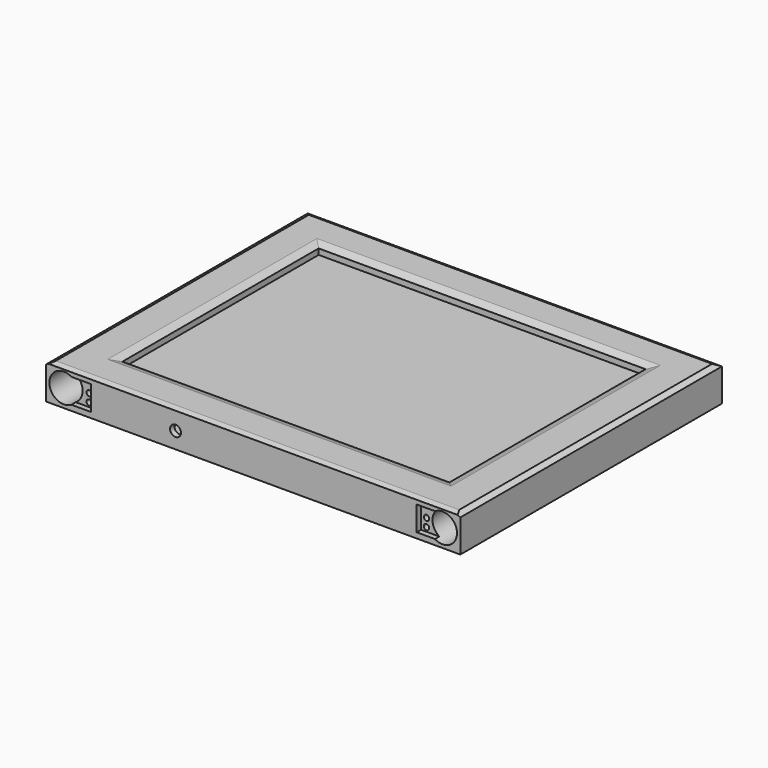
from build123d import *

# Parameters (mm, degrees)
SKETCH_W         = 125
SKETCH_H         = 100
PAD_DEPTH        = 1.5
SKETCH001_W      = 120
SKETCH001_H      = 90
POCKET_DEPTH     = 0.1
SKETCH002_W      = 152
SKETCH002_H      = 120
SKETCH002_W_2    = 120
SKETCH002_H_2    = 90
PAD001_DEPTH     = 3
SKETCH003_W      = 152
SKETCH003_H      = 120
SKETCH003_W_2    = 127
SKETCH003_H_2    = 100
PAD002_DEPTH     = 10
SKETCH004_R      = 5.3
SKETCH004_R_2    = 1
POCKET001_DEPTH  = 55
CHAMFER_SIZE2    = 1
CHAMFER_SIZE     = 3
POCKET002_DEPTH  = 8
SKETCH006_R      = 5.3
SKETCH006_R_2    = 1
POCKET003_DEPTH  = 55
SKETCH011_W      = 10
SKETCH011_H      = 9
POCKET006_DEPTH  = 2
SKETCH012_W      = 10
SKETCH012_H      = 9
POCKET007_DEPTH  = 2
SKETCH013_W      = 8
SKETCH013_H      = 15
SKETCH013_H_2    = 12
POCKET008_DEPTH  = 4
SKETCH014_W      = 3
SKETCH014_H      = 7
POCKET009_DEPTH  = 9
SKETCH015_W      = 3
SKETCH015_H      = 7
POCKET010_DEPTH  = 9
CHAMFER001_SIZE2 = 1
CHAMFER001_SIZE  = 2
CHAMFER002_SIZE2 = 0.5
CHAMFER002_SIZE  = 2
SKETCH016_W      = 3
SKETCH016_H      = 4
SKETCH016_H_2    = 8
POCKET013_DEPTH  = 4
SKETCH017_W      = 10
SKETCH017_H      = 5.5
POCKET014_DEPTH  = 2
SKETCH018_R      = 2
POCKET015_DEPTH  = 10
CHAMFER005_SIZE2 = 3
CHAMFER005_SIZE  = 1.9
PAD004_DEPTH     = 3
PAD003_DEPTH     = 4.5
SKETCH009_W      = 42
SKETCH009_H      = 5
SKETCH009_W_2    = 3
SKETCH009_H_2    = 18
POCKET011_DEPTH  = 2
SKETCH010_W      = 15
SKETCH010_H      = 18
SKETCH010_W_2    = 10
SKETCH010_W_3    = 12
SKETCH010_H_2    = 19
SKETCH010_W_4    = 16
SKETCH010_W_5    = 20
SKETCH010_H_3    = 15
SKETCH010_W_6    = 6
SKETCH010_H_4    = 25
SKETCH010_W_7    = 34
SKETCH010_H_5    = 23
SKETCH010_H_6    = 5.5
POCKET012_DEPTH  = 15
CHAMFER006_SIZE2 = 4
CHAMFER006_SIZE  = 3


with BuildPart() as screen:
    # Sketch → Pad (new body)
    with BuildSketch(Plane.XY):
        Rectangle(SKETCH_W, SKETCH_H)
    extrude(amount=PAD_DEPTH)

    # Sketch001 (on Face6 of Pad) → Pocket (cut)
    with BuildSketch(Plane.XY.offset(1.5)):
        with Locations((0, 2.5)):
            Rectangle(SKETCH001_W, SKETCH001_H)
    extrude(amount=-POCKET_DEPTH, mode=Mode.SUBTRACT)


with BuildPart() as screen_1:
    # Body placement: moved
    add(screen.part.moved(Location((0, 0, -1.5))))


with BuildPart() as frame:
    # Sketch002 → Pad001 (new body)
    with BuildSketch(Plane.XY):
        with Locations((0, 2.5)):
            Rectangle(SKETCH002_W, SKETCH002_H)
        with Locations((0, 2.5)):
            Rectangle(SKETCH002_W_2, SKETCH002_H_2, mode=Mode.SUBTRACT)
    extrude(amount=PAD001_DEPTH)

    # Sketch003 (on Face9 of Pad001) → Pad002 (join)
    with BuildSketch(Plane(origin=(0, 0, 0), x_dir=(1, 0, 0), z_dir=(0, 0, -1))):
        with Locations((0, -2.5)):
            Rectangle(SKETCH003_W, SKETCH003_H)
        Rectangle(SKETCH003_W_2, SKETCH003_H_2, mode=Mode.SUBTRACT)
    extrude(amount=PAD002_DEPTH)

    # Sketch004 (on Face14 of Pad002) → Pocket001 (cut)
    with BuildSketch(Plane.XZ.offset(57.5)):
        with Locations((69.5, -3.5)):
            Circle(SKETCH004_R)
        with Locations((62, -3.5)):
            Circle(SKETCH004_R_2)
        with Locations((62, -6.5)):
            Circle(SKETCH004_R_2)
    extrude(amount=-POCKET001_DEPTH, mode=Mode.SUBTRACT)

    # Chamfer
    chamfer_edges = [frame.edges().sort_by_distance(p)[0] for p in [
        (0, 47.5, 3),
        (0, -42.5, 3),
        (60, 2.5, 3),
        (-60, 2.5, 3),
    ]]
    chamfer_side = frame.faces().sort_by_distance((0, 60.563405, 3))[0]
    chamfer(chamfer_edges, length=CHAMFER_SIZE, length2=CHAMFER_SIZE2, reference=chamfer_side)

    # Sketch005 (on Face9 of Pocket001) → Pocket002 (cut)
    with BuildSketch(Plane(origin=(0, 0, -10), x_dir=(1, 0, 0), z_dir=(0, 0, -1))):
        Polygon((-63.5, -32.999998), (-73.965987, -32.999998), (-73.977709, -2.5), (-63.5, -2.5), (-63.5, 50), (-54.5, 50), (-54.5, 55.5), (-23.5, 55.5), (-23.5, 50), (-15.5, 50), (-15.5, 55.5), (15.5, 55.5), (15.5, 50), (23.5, 50), (23.5, 55.5), (54.5, 55.5), (54.5, 50), (63.5, 50), (63.5, -2.5), (73, -2.5), (73, -42), (63.5, -42), (63.5, -50), (54.5, -50), (54.5, -60.5), (23.5, -60.5), (23.5, -50), (15.5, -50), (15.5, -60.5), (-15.5, -60.5), (-15.5, -50), (-23.5, -50), (-23.5, -60.5), (-54.5, -60.5), (-54.5, -50), (-63.5, -50), align=None)
    extrude(amount=-POCKET002_DEPTH, mode=Mode.SUBTRACT)

    # Sketch006 (on Face16 of Pocket002) → Pocket003 (cut)
    with BuildSketch(Plane.XZ.offset(57.5)):
        with Locations((-69.5, -3.5)):
            Circle(SKETCH006_R)
        with Locations((-61.75, -3.5)):
            Circle(SKETCH006_R_2)
        with Locations((-61.75, -6.5)):
            Circle(SKETCH006_R_2)
    extrude(amount=-POCKET003_DEPTH, mode=Mode.SUBTRACT)

    # Sketch011 (on Face16 of Pocket003) → Pocket006 (cut)
    with BuildSketch(Plane.XZ.offset(57.5)):
        with Locations((-64.5, -3.5)):
            Rectangle(SKETCH011_W, SKETCH011_H)
    extrude(amount=-POCKET006_DEPTH, mode=Mode.SUBTRACT)

    # Sketch012 (on Face16 of Pocket006) → Pocket007 (cut)
    with BuildSketch(Plane.XZ.offset(57.5)):
        with Locations((65, -3.5)):
            Rectangle(SKETCH012_W, SKETCH012_H)
    extrude(amount=-POCKET007_DEPTH, mode=Mode.SUBTRACT)

    # Sketch013 (on Face25 of Pocket007) → Pocket008 (cut)
    with BuildSketch(Plane(origin=(0, 0, -10), x_dir=(1, 0, 0), z_dir=(0, 0, -1))):
        with Locations((-69.5, -52)):
            Rectangle(SKETCH013_W, SKETCH013_H)
        with Locations((69.5, -53.5)):
            Rectangle(SKETCH013_W, SKETCH013_H_2)
    extrude(amount=-POCKET008_DEPTH, mode=Mode.SUBTRACT)

    # Sketch014 (on Face45 of Pocket008) → Pocket009 (cut, symmetric)
    with BuildSketch(Plane(origin=(63.5, 0, 0), x_dir=(0, -1, 0), z_dir=(-1, 0, 0))):
        with Locations((3, -3.5)):
            Rectangle(SKETCH014_W, SKETCH014_H)
    extrude(amount=POCKET009_DEPTH, both=True, mode=Mode.SUBTRACT)

    # Sketch015 (on Face75 of Pocket009) → Pocket010 (cut, symmetric)
    with BuildSketch(Plane.YZ.offset(-63.5)):
        with Locations((-3, -3.5)):
            Rectangle(SKETCH015_W, SKETCH015_H)
    extrude(amount=POCKET010_DEPTH, both=True, mode=Mode.SUBTRACT)

    # Chamfer001
    chamfer001_edges = [frame.edges().sort_by_distance(p)[0] for p in [
        (0, 62.5, 3),
        (76, 2.5, 3),
        (-76, 2.5, 3),
    ]]
    chamfer001_side = frame.faces().sort_by_distance((0, 52.436595, 3))[0]
    chamfer(chamfer001_edges, length=CHAMFER001_SIZE, length2=CHAMFER001_SIZE2, reference=chamfer001_side)

    # Chamfer002
    chamfer002_edges = [frame.edges().sort_by_distance(p)[0] for p in [
        (0, -57.5, 3),
    ]]
    chamfer002_side = frame.faces().sort_by_distance((0, -55.607171, 3))[0]
    chamfer(chamfer002_edges, length=CHAMFER002_SIZE, length2=CHAMFER002_SIZE2, reference=chamfer002_side)

    # Sketch016 (on Face32 of Chamfer002) → Pocket013 (cut)
    with BuildSketch(Plane(origin=(0, 0, -10), x_dir=(1, 0, 0), z_dir=(0, 0, -1))):
        with Locations((-19.5, 53.5)):
            Rectangle(SKETCH016_W, SKETCH016_H)
        with Locations((19.5, 53.5)):
            Rectangle(SKETCH016_W, SKETCH016_H)
        with Locations((-19.5, -56.5)):
            Rectangle(SKETCH016_W, SKETCH016_H_2)
        with Locations((19.5, -56.5)):
            Rectangle(SKETCH016_W, SKETCH016_H_2)
    extrude(amount=-POCKET013_DEPTH, mode=Mode.SUBTRACT)

    # Sketch017 (on Face121 of Pocket013) → Pocket014 (cut)
    with BuildSketch(Plane(origin=(0, 0, -2), x_dir=(1, 0, 0), z_dir=(0, 0, -1))):
        with Locations((-28.5, 52.75)):
            Rectangle(SKETCH017_W, SKETCH017_H)
    extrude(amount=-POCKET014_DEPTH, mode=Mode.SUBTRACT)

    # Sketch018 (on Face18 of Pocket014) → Pocket015 (cut)
    with BuildSketch(Plane.XZ.offset(57.5)):
        with Locations((-28.5, -4)):
            Circle(SKETCH018_R)
    extrude(amount=-POCKET015_DEPTH, mode=Mode.SUBTRACT)

    # Chamfer005
    chamfer005_edges = [frame.edges().sort_by_distance(p)[0] for p in [
        (0, -50, -2),
    ]]
    chamfer005_side = frame.faces().sort_by_distance((20, -50, -1))[0]
    chamfer(chamfer005_edges, length=CHAMFER005_SIZE, length2=CHAMFER005_SIZE2, reference=chamfer005_side)


with BuildPart() as backplane:
    # Sketch008 → Pad004 (new body)
    with BuildSketch(Plane(origin=(0, 0, -10), x_dir=(1, 0, 0), z_dir=(0, 0, -1))):
        Polygon((-63.5, -50), (-63.5, -33), (-74, -33), (-74, -2.5), (-63.5, -2.5), (-63.5, 50), (-54.5, 50), (-54.5, 55.5), (-23.5, 55.5), (-23.5, 50), (-15.5, 50), (-15.5, 55.5), (15.5, 55.5), (15.5, 50), (23.5, 50), (23.5, 55.5), (54.5, 55.5), (54.5, 50), (63.5, 50), (63.5, -2.5), (73, -2.5), (73, -42), (63.5, -42), (63.5, -50), (54.5, -50), (54.5, -60.5), (23.5, -60.5), (23.5, -50), (15.5, -50), (15.5, -60.5), (-15.5, -60.5), (-15.5, -50), (-23.5, -50), (-23.5, -60.5), (-54.5, -60.5), (-54.5, -50), align=None)
    extrude(amount=-PAD004_DEPTH)


with BuildPart() as fill:
    # Sketch007 → Pad003 (new body)
    with BuildSketch(Plane(origin=(0, 0, -6.5), x_dir=(1, 0, 0), z_dir=(0, 0, -1))):
        Polygon((-63, -49.5), (-63, -33), (-48, -33), (-48, -48), (-30, -48), (-30, -33), (-25, -33), (-25, -2.5), (-63, -2.5), (-63, 49.5), (-54, 49.5), (-54, 55), (-24, 55), (-24, 49.5), (-15, 49.5), (-15, 55), (-14, 55), (14, 55), (15, 55), (15, 49.5), (24, 49.5), (24, 55), (54, 55), (54, 49.5), (63, 49.5), (63, -3), (72.5, -3), (72.5, -41.5), (63, -41.5), (63, -49.5), (54, -49.5), (54, -60), (24, -60), (24, -49.5), (15, -49.5), (15, -60), (-15, -60), (-15, -49.5), (-24, -49.5), (-24, -60), (-54, -60), (-54, -49.5), align=None)
        Polygon((-14, -35), (14, -35), (14, 47), (11, 50), (-11, 50), (-14, 47), align=None, mode=Mode.SUBTRACT)
    extrude(amount=-PAD003_DEPTH)

    # Sketch009 (on Face49 of Pad003) → Pocket011 (cut)
    with BuildSketch(Plane(origin=(0, 0, -6.5), x_dir=(1, 0, 0), z_dir=(0, 0, -1))):
        Polygon((-25, -2.5), (-13, 25), (-13, -35), (-30, -48), (-30, -2.5), align=None)
        Polygon((64, 50), (56, 36.143594), (56, 7.24167), (62.5, 5.5), (62.5, 1.5), (47, 5.653212), (0, 5.653212), (0, 10.653212), (47, 10.653212), (50, 9.849365), (50, 36.143594), (58, 50), align=None)
        Polygon((-63.75, 50), (-55.75, 36.143594), (-49.75, 36.143594), (-57.75, 50), align=None)
        Polygon((-43.5, 40), (-43.5, -8.5), (-47.5, -8.5), (-47.5, 1.5), (-62.5, 1.5), (-62.5, 5.5), (-47.5, 5.5), (-47.5, 40), align=None)
        with Locations((-21, 32.5)):
            Rectangle(SKETCH009_W, SKETCH009_H)
        with Locations((-29, 46)):
            Rectangle(SKETCH009_W_2, SKETCH009_H_2)
    extrude(amount=-POCKET011_DEPTH, mode=Mode.SUBTRACT)

    # Sketch010 (on Face4 of Pocket011) → Pocket012 (cut, symmetric)
    with BuildSketch(Plane(origin=(0, 0, -6.5), x_dir=(1, 0, 0), z_dir=(0, 0, -1))):
        with Locations((-49.5, 34.5)):
            Rectangle(SKETCH010_W, SKETCH010_H)
        with Locations((-49.5, 11.5)):
            Rectangle(SKETCH010_W, SKETCH010_H)
        with Locations((-32, 34.5)):
            Rectangle(SKETCH010_W_2, SKETCH010_H)
        Polygon((-37, 20.5), (-37, 2.5), (-27, 20.5), align=None)
        with Locations((30, 34)):
            Rectangle(SKETCH010_W_3, SKETCH010_H_2)
        with Locations((30, 10)):
            Rectangle(SKETCH010_W_3, SKETCH010_H_2)
        with Locations((28, -14)):
            Rectangle(SKETCH010_W_4, SKETCH010_H_2)
        with Locations((28, -38)):
            Rectangle(SKETCH010_W_4, SKETCH010_H_2)
        with Locations((49, 34)):
            Rectangle(SKETCH010_W_4, SKETCH010_H_2)
        with Locations((49, 10)):
            Rectangle(SKETCH010_W_4, SKETCH010_H_2)
        with Locations((49, -14)):
            Rectangle(SKETCH010_W_4, SKETCH010_H_2)
        with Locations((49, -38)):
            Rectangle(SKETCH010_W_4, SKETCH010_H_2)
        with Locations((0, -47.5)):
            Rectangle(SKETCH010_W_5, SKETCH010_H_3)
        with Locations((65, -23)):
            Rectangle(SKETCH010_W_6, SKETCH010_H_4)
        with Locations((0, 24)):
            Rectangle(SKETCH010_W_7, SKETCH010_H_5)
        with Locations((-28.5, 52.25)):
            Rectangle(SKETCH010_W_2, SKETCH010_H_6)
    extrude(amount=POCKET012_DEPTH, both=True, mode=Mode.SUBTRACT)

    # Chamfer006
    chamfer006_edges = [fill.edges().sort_by_distance(p)[0] for p in [
        (0, -50, -2),
    ]]
    chamfer006_side = fill.faces().sort_by_distance((-58.5, 47.722776, -2))[0]
    chamfer(chamfer006_edges, length=CHAMFER006_SIZE, length2=CHAMFER006_SIZE2, reference=chamfer006_side)


solid = Compound([screen_1.part, frame.part, backplane.part, fill.part])
